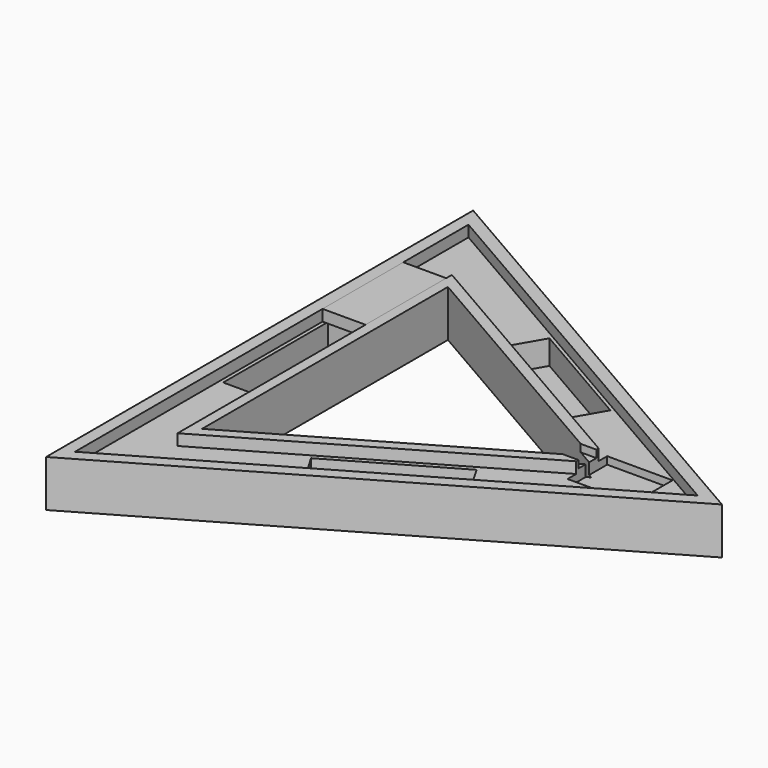
from build123d import *

# Parameters (mm, degrees)
BOX005_W               = 23
BOX005_H               = 54
BOX005_DEPTH           = 6
PRISM003_DEPTH         = 6
PRISM002_DEPTH         = 6
BOX004_W               = 10
BOX004_H               = 12
BOX004_DEPTH           = 4
BOX003_W               = 35
BOX003_H               = 26.5
BOX003_DEPTH           = 10
BOX002_W               = 70
BOX002_H               = 19
BOX002_DEPTH           = 19
BOX002_PLACEMENT_ANGLE = 30
BOX001_W               = 70
BOX001_H               = 19
BOX001_DEPTH           = 19
BOX001_PLACEMENT_ANGLE = 90
BOX_W                  = 70
BOX_H                  = 19
BOX_DEPTH              = 19
BOX_PLACEMENT_ANGLE    = 30
PRISM001_DEPTH         = 25
PRISM_DEPTH            = 25


with BuildPart() as box005:
    # Box005 → Box005 (new body)
    with BuildSketch(Plane(origin=(-76, 34, 13), x_dir=(1, 0, 0), z_dir=(0, 0, 1))):
        with Locations((11.5, 27)):
            Rectangle(BOX005_W, BOX005_H)
    extrude(amount=BOX005_DEPTH)


with BuildPart() as prism003:
    # Prism003 → Prism003 (new body)
    with BuildSketch(Plane.XY.offset(13)):
        Polygon((106, 0), (-53, 91.798693), (-53, -91.798693), align=None)
    extrude(amount=PRISM003_DEPTH)


with BuildPart() as cut006:
    # Prism002 → Prism002 (new body)
    with BuildSketch(Plane.XY.offset(13)):
        Polygon((152, 0), (-76, 131.635861), (-76, -131.635861), align=None)
    extrude(amount=PRISM002_DEPTH)

    # Cut006: cut Prism003
    add(prism003.part, mode=Mode.SUBTRACT)


with BuildPart() as box004:
    # Box004 → Box004 (new body)
    with BuildSketch(Plane(origin=(84, -6, 15), x_dir=(1, 0, 0), z_dir=(0, 0, 1))):
        with Locations((5, 6)):
            Rectangle(BOX004_W, BOX004_H)
    extrude(amount=BOX004_DEPTH)


with BuildPart() as box003:
    # Box003 → Box003 (new body)
    with BuildSketch(Plane(origin=(93, -13.3, 9), x_dir=(1, 0, 0), z_dir=(0, 0, 1))):
        with Locations((17.5, 13.25)):
            Rectangle(BOX003_W, BOX003_H)
    extrude(amount=BOX003_DEPTH)


with BuildPart() as box002:
    # Box002 → Box002 (new body)
    with BuildSketch(Plane.XY):
        with Locations((35, 9.5)):
            Rectangle(BOX002_W, BOX002_H)
    extrude(amount=BOX002_DEPTH)


with BuildPart() as box002_1:
    # Box002 placement: moved
    add(box002.part.moved(Location((7, -82, 0))).rotate(Axis((7, -82, 0), (0, 0, 1)), BOX002_PLACEMENT_ANGLE))


with BuildPart() as box001:
    # Box001 → Box001 (new body)
    with BuildSketch(Plane.XY):
        with Locations((35, 9.5)):
            Rectangle(BOX001_W, BOX001_H)
    extrude(amount=BOX001_DEPTH)


with BuildPart() as box001_1:
    # Box001 placement: moved
    add(box001.part.moved(Location((-55, -35, 0))).rotate(Axis((-55, -35, 0), (0, 0, 1)), BOX001_PLACEMENT_ANGLE))


with BuildPart() as box:
    # Box → Box (new body)
    with BuildSketch(Plane.XY):
        with Locations((35, 9.5)):
            Rectangle(BOX_W, BOX_H)
    extrude(amount=BOX_DEPTH)


with BuildPart() as box_1:
    # Box placement: moved
    add(box.part.moved(Location((-2, 65, 0))).rotate(Axis((-2, 65, 0), (0, 0, -1)), BOX_PLACEMENT_ANGLE))


with BuildPart() as prism001:
    # Prism001 → Prism001 (new body)
    with BuildSketch(Plane.XY.offset(-6)):
        Polygon((95, 0), (-47.5, 82.272413), (-47.5, -82.272413), align=None)
    extrude(amount=PRISM001_DEPTH)


with BuildPart() as cut007:
    # Prism → Prism (new body)
    with BuildSketch(Plane.XY.offset(-6)):
        Polygon((165, 0), (-82.5, 142.894192), (-82.5, -142.894192), align=None)
    extrude(amount=PRISM_DEPTH)

    # Cut: cut Prism001
    add(prism001.part, mode=Mode.SUBTRACT)

    # Cut001: cut Box
    add(box_1.part, mode=Mode.SUBTRACT)

    # Cut002: cut Box001
    add(box001_1.part, mode=Mode.SUBTRACT)

    # Cut003: cut Box002
    add(box002_1.part, mode=Mode.SUBTRACT)

    # Cut004: cut Box003
    add(box003.part, mode=Mode.SUBTRACT)

    # Cut005: cut Box004
    add(box004.part, mode=Mode.SUBTRACT)

    # Cut007: cut Cut006
    add(cut006.part, mode=Mode.SUBTRACT)


solid = Compound([box005.part, cut007.part])
